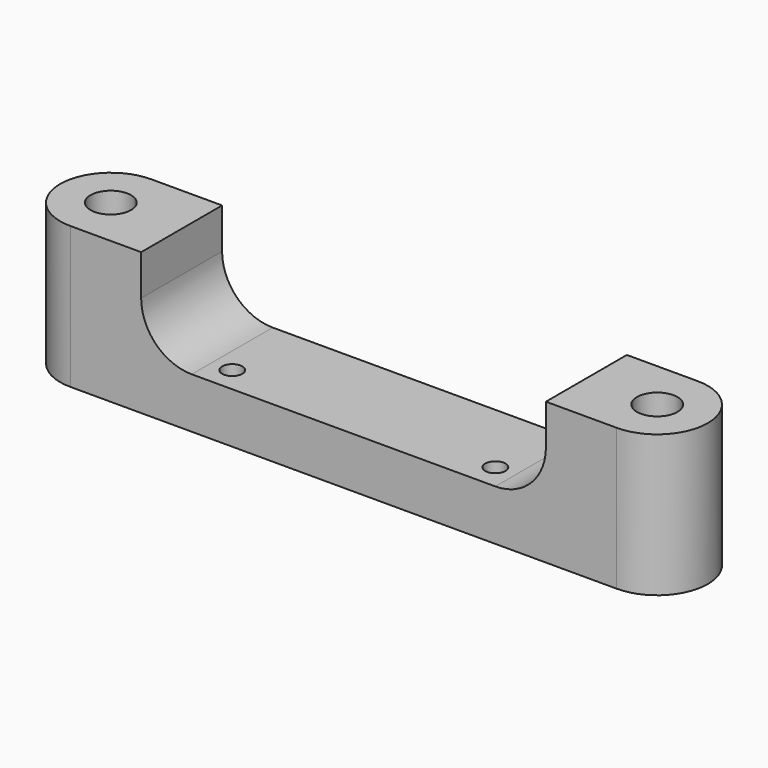
from build123d import *

# Parameters (mm, degrees)
SKETCH_R     = 2
SKETCH_R_2   = 1
PAD_DEPTH    = 14
POCKET_DEPTH = 82.664608


with BuildPart() as part:
    # Sketch → Pad (new body)
    with BuildSketch(Plane.XY):
        with BuildLine():
            ThreePointArc((-26.999971, 5), (-32, 0), (-26.999971, -5))
            Line((-26.999971, -5), (0, -5))
            Line((0, -5), (0, 5))
            Line((-26.999971, 5), (0, 5))
        make_face()
        with Locations((-27, 0)):
            Circle(SKETCH_R, mode=Mode.SUBTRACT)
        with Locations((-13, -2.5)):
            Circle(SKETCH_R_2, mode=Mode.SUBTRACT)
    pad = extrude(amount=PAD_DEPTH)

    # Sketch001 → Pocket (cut, through all)
    with BuildSketch(Plane.XZ.offset(5)):
        with BuildLine():
            Line((-20, 14), (-20, 10.000019))
            ThreePointArc((-20, 10.000019), (-18.535534, 6.464466), (-14.999981, 5))
            Line((0, 5), (-14.999981, 5))
            Line((0, 14), (0, 5))
            Line((-20, 14), (0, 14))
        make_face()
    pocket = extrude(amount=-POCKET_DEPTH, mode=Mode.SUBTRACT)

    # Mirrored: Pad, Pocket across Sketch001 V_Axis
    add(pad.mirror(Plane(origin=(0, -5, 0), x_dir=(0, -1, 0), z_dir=(1, 0, 0))))
    add(pocket.mirror(Plane(origin=(0, -5, 0), x_dir=(0, -1, 0), z_dir=(1, 0, 0))), mode=Mode.SUBTRACT)


solid = part.part
